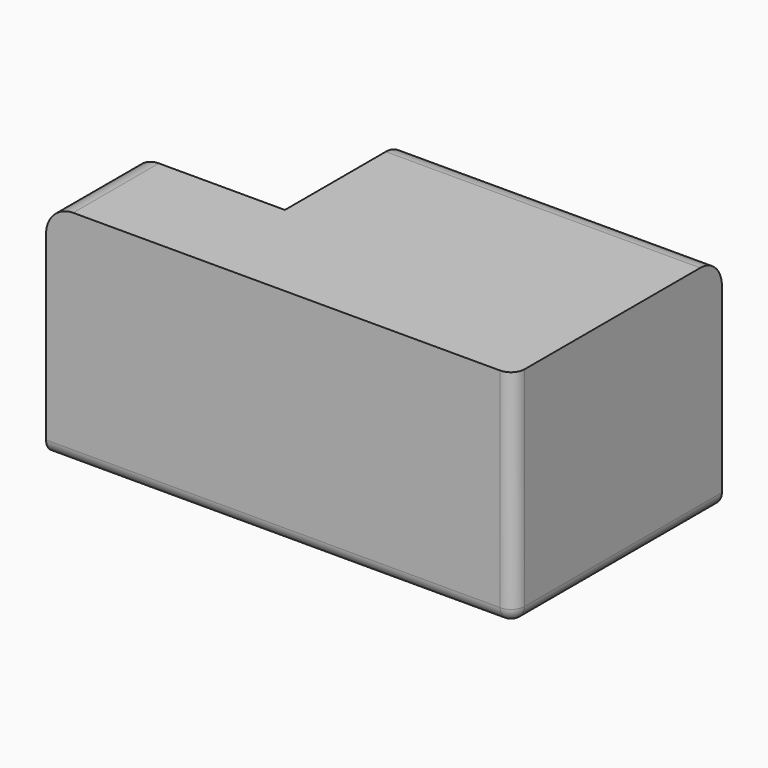
from build123d import *

# Parameters (mm, degrees)
F0_W     = 34.5
F0_H     = 19.2
F1_DEPTH = 16.4
F2_W     = 11.3
F2_H     = 11.3
F3_DEPTH = 11.3
F4_R     = 1
F5_R     = 2


with BuildPart() as f1:
    # F0 (on Top) → F1 (new body)
    with BuildSketch(Plane.XY):
        with Locations((17.25, 9.6)):
            Rectangle(F0_W, F0_H)
    extrude(amount=F1_DEPTH)

    # F2 (on face) → F3 (cut)
    with BuildSketch(Plane.XY.offset(16.4)):
        with Locations((5.65, 13.55)):
            Rectangle(F2_W, F2_H)
    extrude(amount=-F3_DEPTH, mode=Mode.SUBTRACT)

    # F4
    f4_edges = [f1.edges().sort_by_distance(p)[0] for p in [
        (34.5, 0, 8.2),
        (34.5, 9.6, 0),
        (17.25, 0, 0),
    ]]
    fillet(f4_edges, radius=F4_R)

    # F5
    f5_edges = [f1.edges().sort_by_distance(p)[0] for p in [
        (0, 19.2, 2.55),
        (0, 3.95, 16.4),
        (22.9, 19.2, 16.4),
    ]]
    fillet(f5_edges, radius=F5_R)


solid = f1.part
